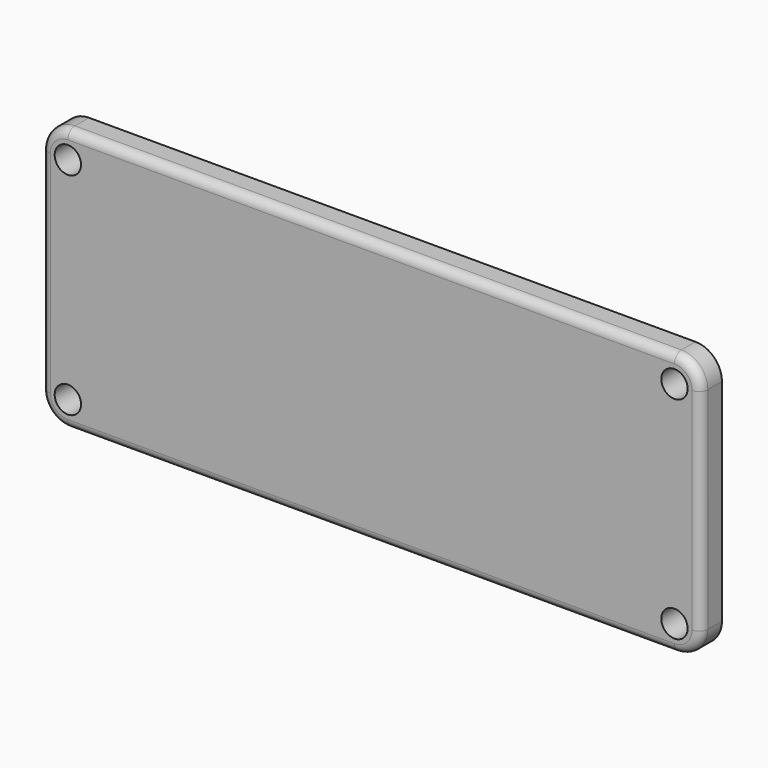
from build123d import *

# Parameters (mm, degrees)
F0_R     = 1.5
F1_DEPTH = 3
F2_R     = 1


with BuildPart() as f1:
    # F0 (on Front) → F1 (new body)
    with BuildSketch(Plane.XZ):
        with BuildLine():
            Line((35.046612, 11.334955), (-33.953388, 11.334955))
            ThreePointArc((-33.953388, 11.334955), (-36.074708, 10.456276), (-36.953388, 8.334955))
            Line((-36.953388, 8.334955), (-36.953388, -15.665045))
            ThreePointArc((-36.953388, -15.665045), (-36.074708, -17.786365), (-33.953388, -18.665045))
            Line((-33.953388, -18.665045), (35.046612, -18.665045))
            ThreePointArc((35.046612, -18.665045), (37.167932, -17.786365), (38.046612, -15.665045))
            Line((38.046612, -15.665045), (38.046612, 8.334955))
            ThreePointArc((38.046612, 8.334955), (37.167932, 10.456276), (35.046612, 11.334955))
        make_face()
        with Locations((-33.953388, -15.665045)):
            Circle(F0_R, mode=Mode.SUBTRACT)
        with Locations((35.046612, -15.665045)):
            Circle(F0_R, mode=Mode.SUBTRACT)
        with Locations((-33.953388, 8.334955)):
            Circle(F0_R, mode=Mode.SUBTRACT)
        with Locations((35.046612, 8.334955)):
            Circle(F0_R, mode=Mode.SUBTRACT)
    extrude(amount=F1_DEPTH)

    # F2
    f2_edges = [f1.edges().sort_by_distance(p)[0] for p in [
        (0.546612, -3, 11.334955),
        (-36.074708, -3, 10.456276),
        (-36.953388, -3, -3.665045),
        (-36.074708, -3, -17.786365),
        (0.546612, -3, -18.665045),
        (37.167932, -3, 10.456276),
        (38.046612, -3, -3.665045),
        (37.167932, -3, -17.786365),
    ]]
    fillet(f2_edges, radius=F2_R)


solid = f1.part
